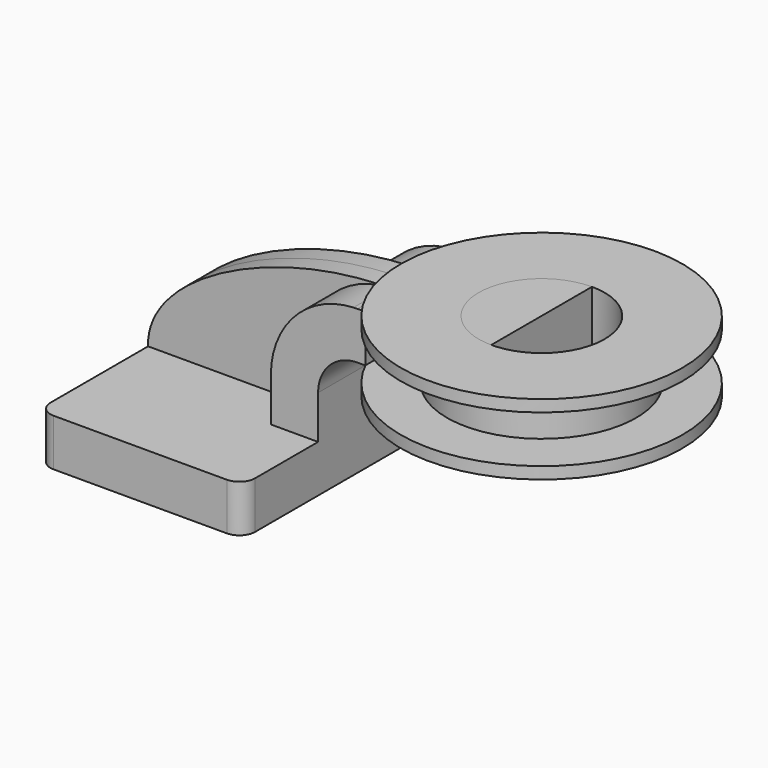
from build123d import *

# Parameters (mm, degrees)
F1_DEPTH = 63.5
F2_DEPTH = 25.4
F3_DEPTH = 7.9375
F5_R     = 6.35


with BuildPart() as f1:
    # F0 (on Front) → F1 (new body, symmetric)
    with BuildSketch(Plane.XZ):
        Polygon((-41.275, -9.525), (41.275, -9.525), (41.275, 9.525), (22.225, 9.525), (-41.275, 9.525), align=None)
    extrude(amount=F1_DEPTH, both=True)

    # F0 (on Front) → F2 (join, symmetric)
    with BuildSketch(Plane.XZ):
        with BuildLine():
            Line((22.225, 9.525), (41.275, 9.525))
            Line((41.275, 9.525), (41.275, 27.0002))
            ThreePointArc((41.275, 27.0002), (45.92468, 38.22552), (57.15, 42.8752))
            Line((57.15, 42.8752), (60.325, 42.8752))
            Line((60.325, 42.8752), (60.325, 61.9252))
            Line((60.325, 61.9252), (57.15, 61.9252))
            ThreePointArc((57.15, 61.9252), (56.357391, 61.916205), (55.56519, 61.889224))
            ThreePointArc((55.56519, 61.889224), (31.900197, 51.129085), (22.225, 27.0002))
            Line((22.225, 27.0002), (22.225, 9.525))
        make_face()
        Polygon((82.634441, 42.8752), (60.325, 42.8752), (60.325, 38.1), (111.125, 38.1), (111.125, 66.675), (60.325, 66.675), (60.325, 61.9252), (82.634441, 61.9252), align=None)
    extrude(amount=F2_DEPTH, both=True)

    # F0 (on Front) → F3 (join, symmetric)
    with BuildSketch(Plane.XZ):
        with BuildLine():
            add(Edge.make_bspline(
                [(-41.275, 9.525), (-42.180944, 36.791354), (10.218859, 61.876368), (55.56519, 61.889224)],
                knots=[0, 0, 0, 0, 110.091028, 110.091028, 110.091028, 110.091028], degree=3))
            Line((-41.275, 9.525), (22.225, 9.525))
            Line((22.225, 9.525), (22.225, 27.0002))
            ThreePointArc((22.225, 27.0002), (31.900197, 51.129085), (55.56519, 61.889224))
        make_face()
    extrude(amount=F3_DEPTH, both=True)

    # F5
    f5_edges = [f1.edges().sort_by_distance(p)[0] for p in [
        (-41.275, -63.5, 0),
        (41.275, -63.5, 0),
        (41.275, 63.5, 0),
        (-41.275, 63.5, 0),
    ]]
    fillet(f5_edges, radius=F5_R)


with BuildPart() as f4:
    # F2_face (on face) → F4 (revolve)
    with BuildSketch(Plane(origin=(91.622215, 25.4, 52.382242), x_dir=(1, 0, 0), z_dir=(0, 1, 0))):
        Polygon((-31.297215, 9.507042), (-8.987774, 9.507042), (-8.987774, -9.542958), (-31.297215, -9.542958), (-31.297215, -14.292758), (19.502785, -14.292758), (19.502785, 14.282242), (-31.297215, 14.282242), align=None)
    revolve(axis=Axis((111.125, 0, 52.3875), (0, 0, 1)))


solid = Compound([f1.part, f4.part])
